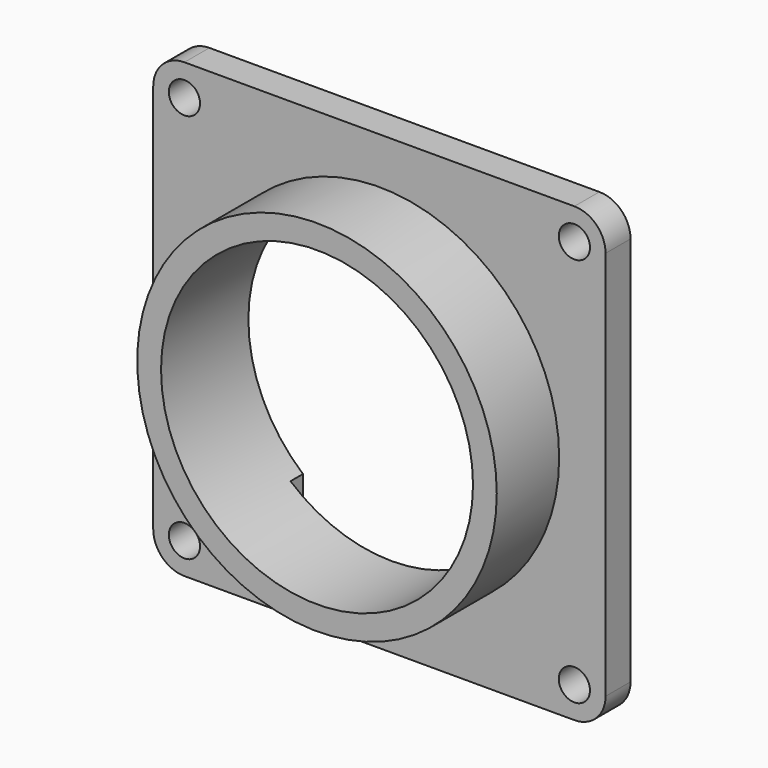
from build123d import *

# Parameters (mm, degrees)
F0_R      = 2
F0_R_2    = 20
F1_DEPTH  = 4
F2_R      = 1.995
F3_DEPTH  = 4
F4_SIZE   = 1
F5_R      = 23.05
F5_R_2    = 20
F6_DEPTH  = 10
F8_DEPTH  = 2
F9_R      = 0.8
F10_DEPTH = 6


with BuildPart() as f1:
    # F0 (on Front) → F1 (new body)
    with BuildSketch(Plane.XZ):
        with BuildLine():
            ThreePointArc((29, 25), (27.828427, 27.828427), (25, 29))
            Line((25, 29), (-25, 29))
            ThreePointArc((-25, 29), (-27.828427, 27.828427), (-29, 25))
            Line((-29, 25), (-29, -25))
            ThreePointArc((-29, -25), (-27.828427, -27.828427), (-25, -29))
            Line((-25, -29), (25, -29))
            ThreePointArc((25, -29), (27.828427, -27.828427), (29, -25))
            Line((29, -25), (29, 25))
        make_face()
        with Locations((-25, -25)):
            Circle(F0_R, mode=Mode.SUBTRACT)
        with Locations((25, -25)):
            Circle(F0_R, mode=Mode.SUBTRACT)
        with Locations((-25, 25)):
            Circle(F0_R, mode=Mode.SUBTRACT)
        Circle(F0_R_2, mode=Mode.SUBTRACT)
        with Locations((25, 25)):
            Circle(F0_R, mode=Mode.SUBTRACT)
    extrude(amount=F1_DEPTH)

    # F2 (on face) → F3 (join)
    with BuildSketch(Plane(origin=(0, 0, 0), x_dir=(-1, 0, 0), z_dir=(0, 1, 0))):
        with Locations((-19, 25)):
            Circle(F2_R)
        with Locations((19, 25)):
            Circle(F2_R)
        with Locations((19, -25)):
            Circle(F2_R)
        with Locations((-16, -25)):
            Circle(F2_R)
    extrude(amount=F3_DEPTH)

    # F4
    f4_edges = [f1.edges().sort_by_distance(p)[0] for p in [
        (17.995, 4, -25),
        (-17.005, 4, -25),
        (-17.005, 4, 25),
        (20.995, 4, 25),
    ]]
    chamfer(f4_edges, length=F4_SIZE)

    # F5 (on face) → F6 (join)
    with BuildSketch(Plane.XZ.offset(4)):
        Circle(F5_R)
        Circle(F5_R_2, mode=Mode.SUBTRACT)
    extrude(amount=F6_DEPTH)

    # F7 (on face) → F8 (cut)
    with BuildSketch(Plane(origin=(0, 0, 0), x_dir=(-1, 0, 0), z_dir=(0, 1, 0))):
        with BuildLine():
            ThreePointArc((13, -15.198684), (0, -20), (-13, -15.198684))
            Line((-13, -15.198684), (-13, -23))
            ThreePointArc((-13, -23), (-12.414214, -24.414214), (-11, -25))
            Line((-11, -25), (11, -25))
            ThreePointArc((11, -25), (12.414214, -24.414214), (13, -23))
            Line((13, -23), (13, -15.198684))
        make_face()
    extrude(amount=-F8_DEPTH, mode=Mode.SUBTRACT)

    # F9 (on face) → F10 (cut)
    with BuildSketch(Plane(origin=(0, -2, 0), x_dir=(-1, 0, 0), z_dir=(0, 1, 0))):
        with Locations((-11.406512, -18.254235)):
            Circle(F9_R)
        with Locations((11.406512, -18.254235)):
            Circle(F9_R)
    extrude(amount=-F10_DEPTH, mode=Mode.SUBTRACT)


solid = f1.part
